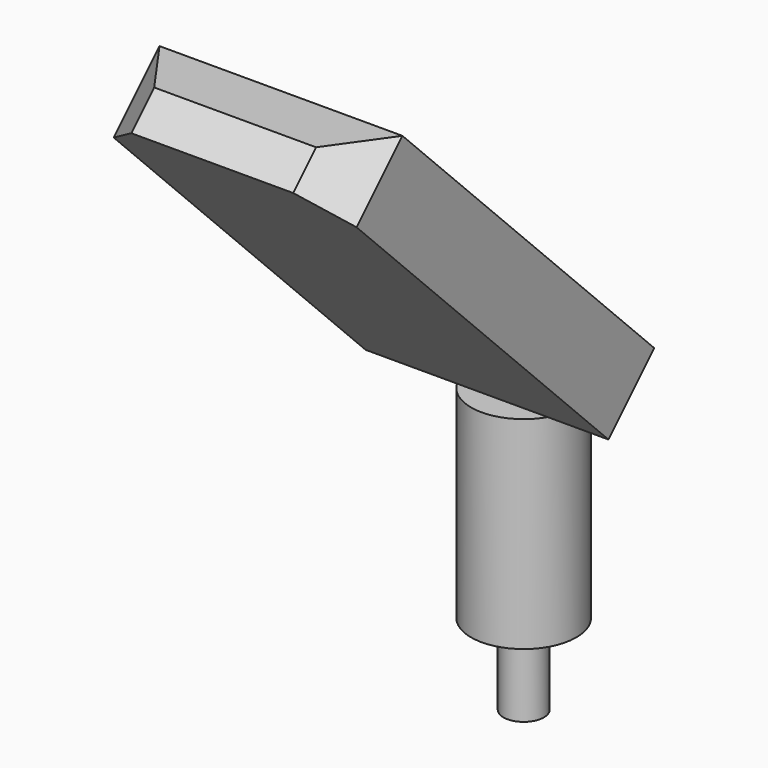
from build123d import *

# Parameters (mm, degrees)
F0_R     = 2.5
F1_DEPTH = 10
F2_R     = 6.5
F2_R_2   = 2.5
F3_DEPTH = 25
F4_R     = 2.5
F5_ANGLE = 45
F6_W     = 30
F6_H     = 10
F6_R     = 2.5
F7_DEPTH = 60
F8_SIZE2 = 5
F8_SIZE  = 5


with BuildPart() as f1:
    # F0 (on Top) → F1 (new body)
    with BuildSketch(Plane.XY):
        Circle(F0_R)
    extrude(amount=F1_DEPTH)

    # F2 (on face) → F3 (join)
    with BuildSketch(Plane.XY.offset(10)):
        Circle(F2_R)
        Circle(F2_R_2, mode=Mode.SUBTRACT)
        Circle(F2_R_2)
    extrude(amount=F3_DEPTH)

    # F4 (on face) → F5 (revolve)
    with BuildSketch(Plane.XY.offset(35)):
        Circle(F4_R)
    revolve(axis=Axis((1.7774057342, -7.2282995097, 35), (1, 0, 0)), revolution_arc=F5_ANGLE)

    # F6 (on face) → F7 (join)
    with BuildSketch(Plane(origin=(0, -21.1141497549, 21.1141497549), x_dir=(1, 0, 0), z_dir=(0, -0.7071067812, 0.7071067812))):
        with Locations((0, 26.8658572515)):
            Rectangle(F6_W, F6_H)
        with Locations((0, 26.8658572515)):
            Circle(F6_R, mode=Mode.SUBTRACT)
        with Locations((0, 26.8658572515)):
            Circle(F6_R)
    extrude(amount=F7_DEPTH)

    # F8
    f8_edges = [f1.edges().sort_by_distance(p)[0] for p in [
        (0, -41.007993, 86.07312),
        (-15, -44.543527, 82.537586),
        (15, -44.543527, 82.537586),
    ]]
    chamfer(f8_edges, length=F8_SIZE, length2=F8_SIZE2)


solid = f1.part
